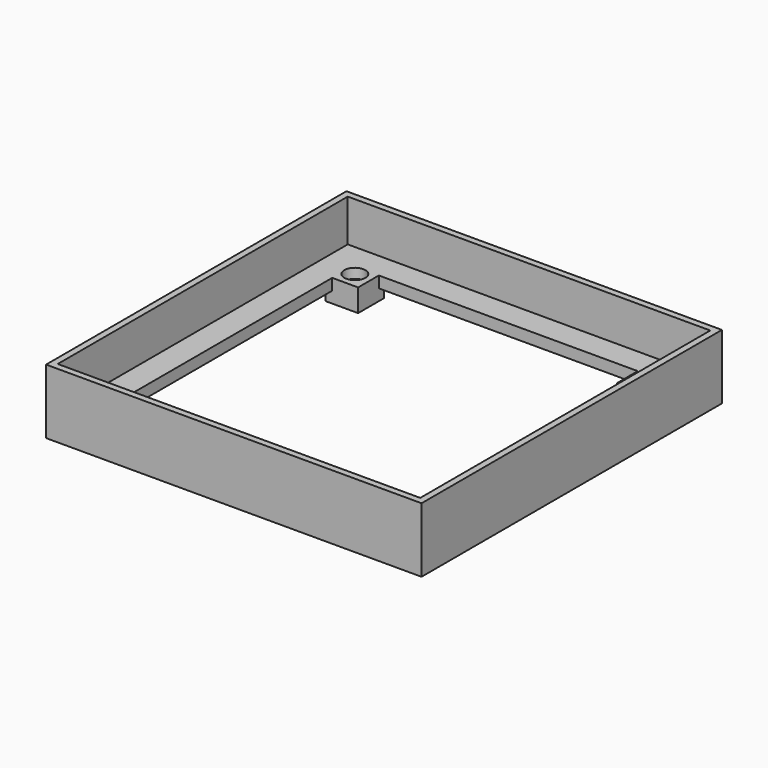
from build123d import *

# Parameters (mm, degrees)
F0_W            = 116
F0_H            = 116
F1_DEPTH        = 20
F2_W            = 112
F2_H            = 112
F3_DEPTH        = 13
F4_W            = 96
F4_H            = 96
F5_DEPTH        = 7
F6_W            = 112
F6_H            = 112
F6_W_2          = 96
F6_H_2          = 96
F7_DEPTH        = 3.5
F8_W            = 10
F8_H            = 10
F9_DEPTH        = 7
F11_D           = 3.4
F11_CBORE_D     = 6.5
F11_CBORE_DEPTH = 3


with BuildPart() as f1:
    # F0 (on Top) → F1 (new body)
    with BuildSketch(Plane.XY):
        Rectangle(F0_W, F0_H)
    extrude(amount=F1_DEPTH)

    # F2 (on face) → F3 (cut)
    with BuildSketch(Plane.XY.offset(20)):
        Rectangle(F2_W, F2_H)
    extrude(amount=-F3_DEPTH, mode=Mode.SUBTRACT)

    # F4 (on face) → F5 (cut, through all)
    with BuildSketch(Plane.XY.offset(7)):
        Rectangle(F4_W, F4_H)
    extrude(amount=-F5_DEPTH, mode=Mode.SUBTRACT)

    # F6 (on face) → F7 (cut)
    with BuildSketch(Plane(origin=(0, 0, 0), x_dir=(1, 0, 0), z_dir=(0, 0, -1))):
        Rectangle(F6_W, F6_H)
        Rectangle(F6_W_2, F6_H_2, mode=Mode.SUBTRACT)
    extrude(amount=-F7_DEPTH, mode=Mode.SUBTRACT)

    # F8 (on face) → F9 (join, through all)
    with BuildSketch(Plane.XY.offset(7)):
        with Locations((-45, 45)):
            Rectangle(F8_W, F8_H)
        with Locations((45, 45)):
            Rectangle(F8_W, F8_H)
        with Locations((-45, -45)):
            Rectangle(F8_W, F8_H)
        with Locations((45, -45)):
            Rectangle(F8_W, F8_H)
    extrude(amount=-F9_DEPTH)

    # F11 (through all)
    with Locations(Plane.XY.offset(7)):
        with Locations((45, 45), (-45, 45), (-45, -45), (45, -45)):
            CounterBoreHole(F11_D / 2, F11_CBORE_D / 2, F11_CBORE_DEPTH)


solid = f1.part
